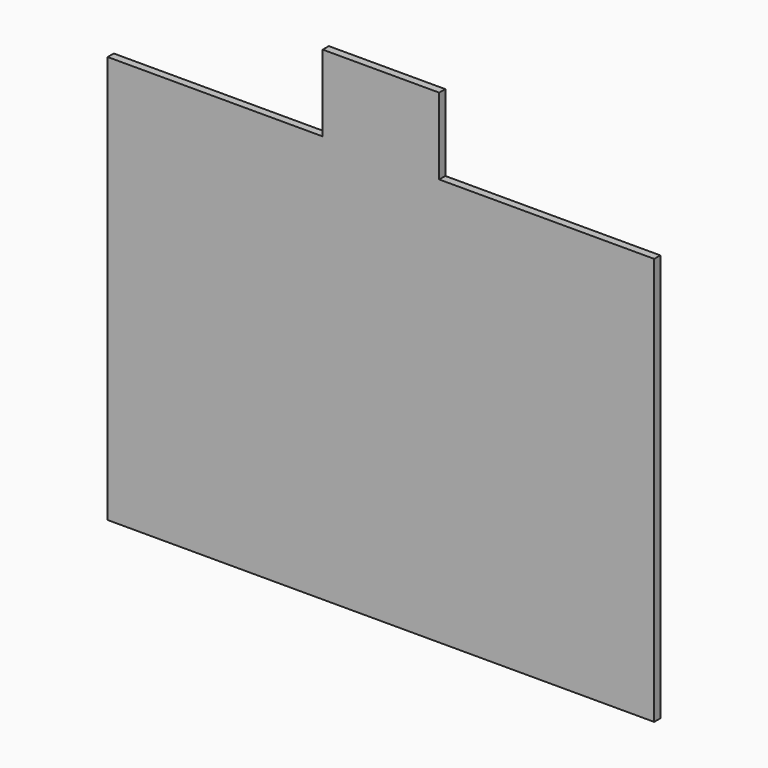
from build123d import *

# Parameters (mm, degrees)
F0_W     = 21.434508
F0_H     = 0.762
F1_DEPTH = 40.64
F0_W_2   = 11.613984
F2_DEPTH = 48.26


with BuildPart() as f1:
    # F0 (on Top) → F1 (new body)
    with BuildSketch(Plane.XY):
        with Locations((16.524246, 0)):
            Rectangle(F0_W, F0_H)
        with Locations((-16.524246, 0)):
            Rectangle(F0_W, F0_H)
    extrude(amount=F1_DEPTH)

    # F0 (on Top) → F2 (join)
    with BuildSketch(Plane.XY):
        Rectangle(F0_W_2, F0_H)
    extrude(amount=F2_DEPTH)


solid = f1.part
